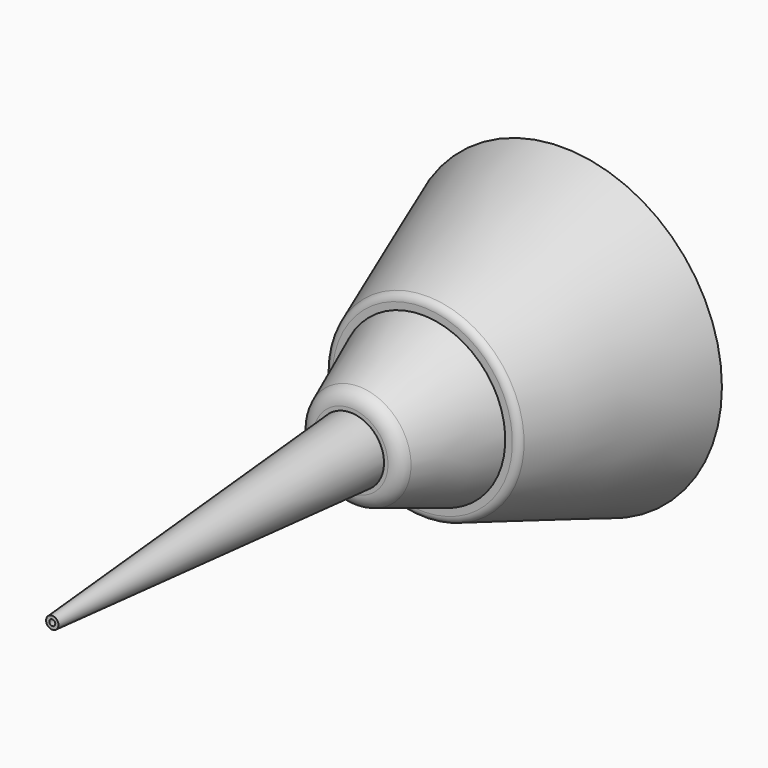
from build123d import *

# Parameters (mm, degrees)
F2_T = -2.5
F5_R = 2.5
F8_T = -1
F9_R = 5


with BuildPart() as f1:
    # F0 (on Top) → F1 (revolve)
    with BuildSketch(Plane.XY):
        Polygon((-50, 55), (-30, 0), (0, 0), (0, 55), align=None)
    revolve(axis=Axis((0, 27.5, 0), (0, 1, 0)))

    # F2
    f2_openings = [f1.faces().sort_by_distance(p)[0] for p in [
        (0, 55, 0),
    ]]
    offset(amount=F2_T, openings=f2_openings)

    # F3 (on Top) → F4 (revolve)
    with BuildSketch(Plane.XY):
        Polygon((0, -28.1766057014), (0, 0), (-26.0091759264, 0), (-15.1720196009, -28.1766057014), align=None)
    revolve(axis=Axis((0, -44.4323420525, 0), (0, -1, 0)))

    # F5
    f5_edges = [f1.edges().sort_by_distance(p)[0] for p in [
        (30, 0, 0),
    ]]
    fillet(f5_edges, radius=F5_R)

    # F6 (on Top) → F7 (revolve)
    with BuildSketch(Plane.XY):
        Polygon((0, -28.1766057014), (-10.493944336, -28.1766057014), (-1.9424433219, -145.2080160379), (0, -145.2080160379), align=None)
    revolve(axis=Axis((0, -86.6923108697, 0), (0, -1, 0)))

    # F8
    f8_openings = [f1.faces().sort_by_distance(p)[0] for p in [
        (0, -145.208016, 0),
    ]]
    offset(amount=F8_T, openings=f8_openings, kind=Kind.INTERSECTION)

    # F9
    f9_edges = [f1.edges().sort_by_distance(p)[0] for p in [
        (15.17202, -28.176606, 0),
    ]]
    fillet(f9_edges, radius=F9_R)


solid = f1.part
